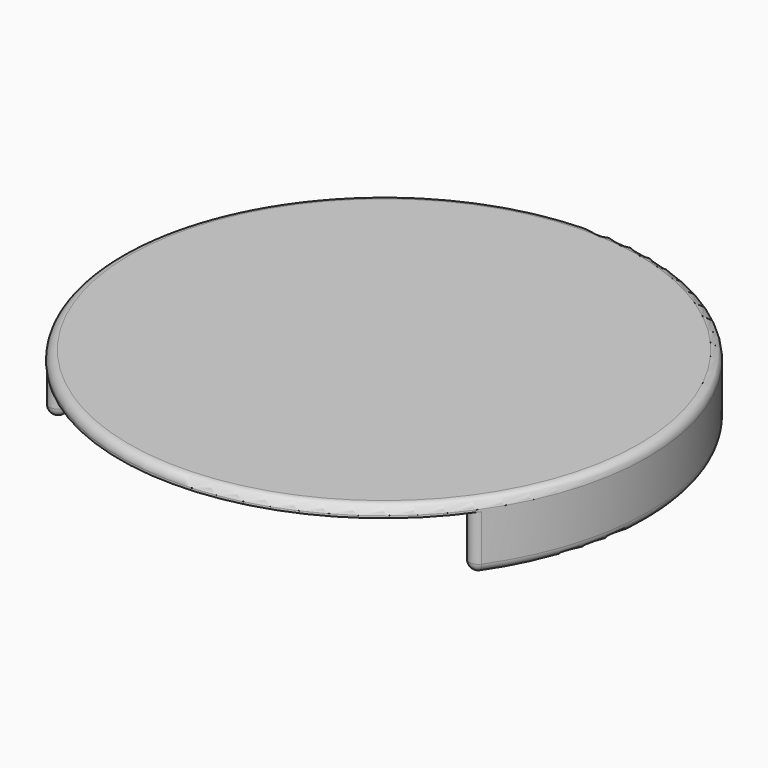
from build123d import *

# Parameters (mm, degrees)
SKETCH_R     = 12
PAD_DEPTH    = 3
SKETCH001_R  = 10
POCKET_DEPTH = 2.5
FILLET_R     = 0.4


with BuildPart() as part:
    # Sketch → Pad (new body)
    with BuildSketch(Plane.XY):
        Circle(SKETCH_R)
    extrude(amount=PAD_DEPTH)

    # Sketch001 → Pocket (cut)
    with BuildSketch(Plane.XY):
        with Locations((0, -2.467762)):
            Circle(SKETCH001_R)
    extrude(amount=POCKET_DEPTH, mode=Mode.SUBTRACT)

    # Fillet
    fillet_edges = [part.edges().sort_by_distance(p)[0] for p in [
        (-12, 0, 3),
        (-4.240751, 6.588508, 0),
        (-5.794891, 10.508056, 0),
        (9.05627, -6.708513, 0),
        (-6.403207, -10.14884, 1.25),
        (6.403207, -10.14884, 1.25),
    ]]
    fillet(fillet_edges, radius=FILLET_R)


solid = part.part
